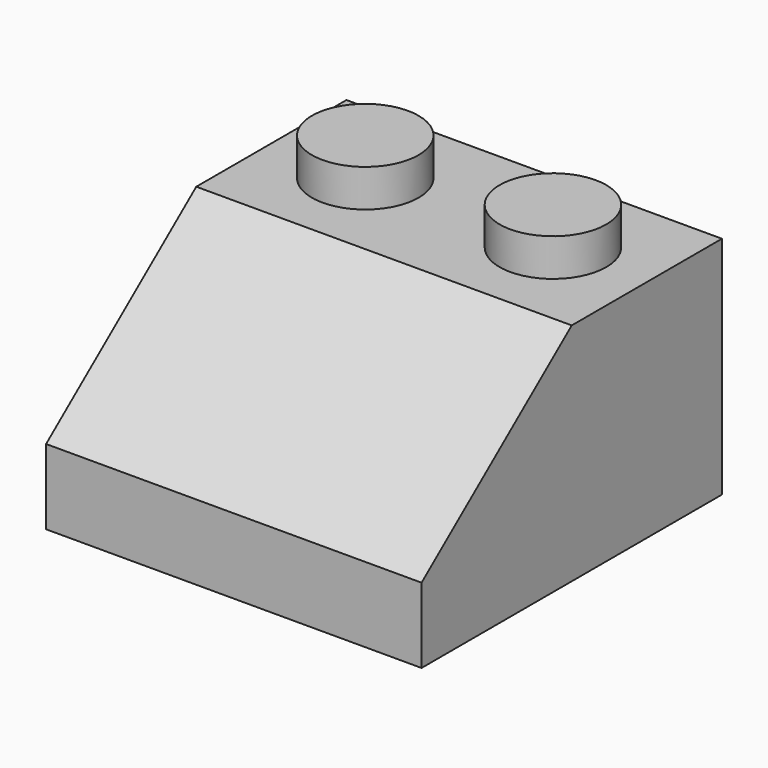
from build123d import *

# Parameters (mm, degrees)
F0_W     = 15.875
F0_H     = 15.875
F0_R     = 2.2550277878
F0_R_2   = 3.175
F0_R_3   = 2.38125
F1_DEPTH = 9.525
F2_DEPTH = 11.1125
F3_DEPTH = 9.525
F5_DEPTH = 25.4
F6_T     = -1.5875


with BuildPart() as f1:
    # F0 (on Top) → F1 (new body)
    with BuildSketch(Plane.XY):
        Rectangle(F0_W, F0_H)
        with Locations((-3.96875, 3.96875)):
            Circle(F0_R, mode=Mode.SUBTRACT)
        Circle(F0_R_2, mode=Mode.SUBTRACT)
        with Locations((3.96875, 3.96875)):
            Circle(F0_R, mode=Mode.SUBTRACT)
        Circle(F0_R_2)
        Circle(F0_R_3, mode=Mode.SUBTRACT)
        Circle(F0_R_3)
    extrude(amount=F1_DEPTH)

    # F0 (on Top) → F2 (join)
    with BuildSketch(Plane.XY):
        with Locations((-3.96875, 3.96875)):
            Circle(F0_R)
        with Locations((3.96875, 3.96875)):
            Circle(F0_R)
    extrude(amount=F2_DEPTH)

    # F0 (on Top) → F3 (join)
    with BuildSketch(Plane.XY):
        Circle(F0_R_2)
        Circle(F0_R_3, mode=Mode.SUBTRACT)
    extrude(amount=F3_DEPTH)

    # F4 (on face) → F5 (cut)
    with BuildSketch(Plane.YZ.offset(7.9375)):
        Polygon((-7.9375, 9.525), (-7.9375, 3.175), (0, 9.525), align=None)
    extrude(amount=-F5_DEPTH, mode=Mode.SUBTRACT)

    # F6
    f6_openings = [f1.faces().sort_by_distance(p)[0] for p in [
        (0, 0, 0),
    ]]
    offset(amount=F6_T, openings=f6_openings, kind=Kind.INTERSECTION)


solid = f1.part
